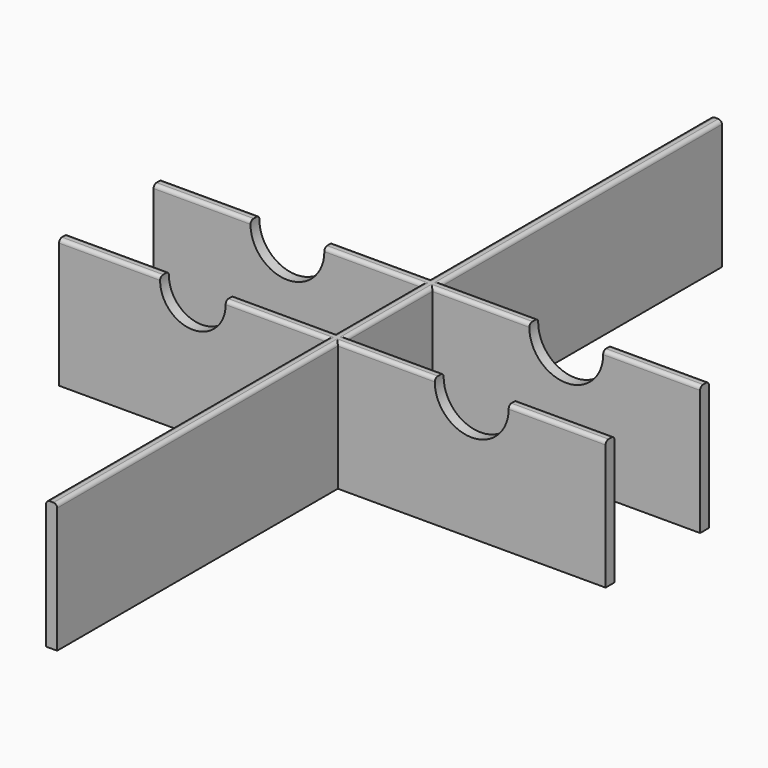
from build123d import *

# Parameters (mm, degrees)
F1_DEPTH  = 35
F2_R      = 1
F4_DEPTH  = 25
F6_DEPTH  = 25
F8_DEPTH  = 25
F10_DEPTH = 25


with BuildPart() as f1:
    # F0 (on Top) → F1 (new body)
    with BuildSketch(Plane.XY):
        Polygon((1.5, 17.5), (1.5, 112.5), (-1.5, 112.5), (-1.5, 17.5), (-74, 17.5), (-74, 14.5), (-1.5, 14.5), (-1.5, -14.5), (-74, -14.5), (-74, -17.5), (-1.5, -17.5), (-1.5, -112.5), (1.5, -112.5), (1.5, -17.5), (74, -17.5), (74, -14.5), (1.5, -14.5), (1.5, 14.5), (74, 14.5), (74, 17.5), align=None)
    extrude(amount=F1_DEPTH)

    # F2
    f2_edges = [f1.edges().sort_by_distance(p)[0] for p in [
        (-37.75, 14.5, 35),
        (-1.5, 65, 35),
        (-37.75, 17.5, 35),
        (1.5, 65, 35),
        (37.75, 17.5, 35),
        (37.75, 14.5, 35),
        (1.5, 0, 35),
        (-1.5, 0, 35),
        (-37.75, -14.5, 35),
        (-37.75, -17.5, 35),
        (37.75, -14.5, 35),
        (37.75, -17.5, 35),
        (-1.5, -65, 35),
        (1.5, -65, 35),
    ]]
    fillet(f2_edges, radius=F2_R)

    # F3 (on face) → F4 (cut)
    with BuildSketch(Plane.XZ.offset(17.5)):
        with BuildLine():
            ThreePointArc((-46.6319660113, 34), (-37.75, 25.1180339887), (-28.8680339887, 34))
            Line((-28.8680339887, 34), (-46.6319660113, 34))
        make_face()
        with BuildLine():
            Line((-46.6319660113, 34), (-28.8680339887, 34))
            ThreePointArc((-28.8680339887, 34), (-37.75, 42.8819660113), (-46.6319660113, 34))
        make_face()
    extrude(amount=-F4_DEPTH, mode=Mode.SUBTRACT)

    # F5 (on face) → F6 (cut)
    with BuildSketch(Plane.XZ.offset(-14.5)):
        with BuildLine():
            ThreePointArc((-47.75, 34), (-37.75, 24), (-27.75, 34))
            Line((-27.75, 34), (-47.75, 34))
        make_face()
        with BuildLine():
            Line((-47.75, 34), (-27.75, 34))
            ThreePointArc((-27.75, 34), (-37.75, 44), (-47.75, 34))
        make_face()
    extrude(amount=-F6_DEPTH, mode=Mode.SUBTRACT)

    # F7 (on face) → F8 (cut)
    with BuildSketch(Plane.XZ.offset(17.5)):
        with BuildLine():
            Line((27.75, 34), (47.75, 34))
            ThreePointArc((47.75, 34), (37.75, 44), (27.75, 34))
        make_face()
        with BuildLine():
            ThreePointArc((27.75, 34), (37.75, 24), (47.75, 34))
            Line((47.75, 34), (27.75, 34))
        make_face()
    extrude(amount=-F8_DEPTH, mode=Mode.SUBTRACT)

    # F9 (on face) → F10 (cut)
    with BuildSketch(Plane.XZ.offset(-14.5)):
        with BuildLine():
            Line((27.75, 34), (47.75, 34))
            ThreePointArc((47.75, 34), (37.75, 44), (27.75, 34))
        make_face()
        with BuildLine():
            ThreePointArc((27.75, 34), (37.75, 24), (47.75, 34))
            Line((47.75, 34), (27.75, 34))
        make_face()
    extrude(amount=-F10_DEPTH, mode=Mode.SUBTRACT)


solid = f1.part
